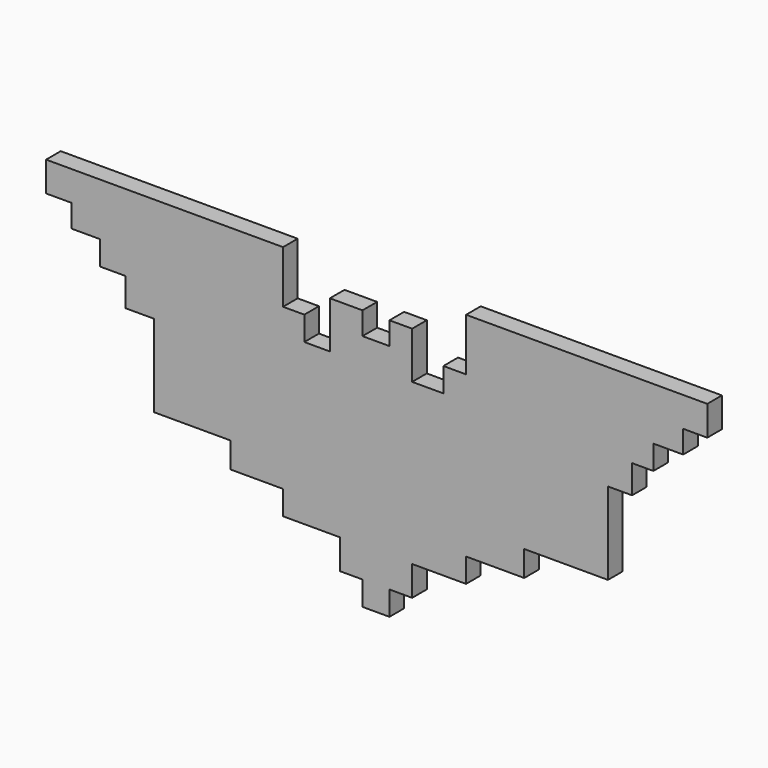
from build123d import *

# Parameters (mm, degrees)
F1_DEPTH = 1.778


with BuildPart() as f1:
    # F0 (on Front) → F1 (new body)
    with BuildSketch(Plane.XZ):
        Polygon((6.730647, 24.762351), (-16.278638, 24.762351), (-16.278638, 21.868968), (-13.798594, 21.868968), (-13.798594, 19.664485), (-11.042993, 19.664485), (-11.042993, 17.322224), (-8.562949, 17.322224), (-8.562949, 14.566621), (-5.807347, 14.566621), (-5.807347, 6.575372), (1.632781, 6.575372), (1.632781, 4.095329), (6.730647, 4.095329), (6.730647, 1.753066), (12.241852, 1.753066), (12.241852, -1.140316), (14.446334, -1.140316), (14.446334, -3.482578), (17.064158, -3.482578), (17.064158, -1.140316), (19.268639, -1.140316), (19.268639, 1.753066), (24.504285, 1.753066), (24.504285, 4.095329), (30.153273, 4.095329), (30.153273, 6.575372), (38.282301, 6.575372), (38.282301, 14.566621), (40.624563, 14.566621), (40.624563, 17.322224), (42.691264, 17.322224), (42.691264, 19.664485), (45.584649, 19.664485), (45.584649, 21.868968), (47.92691, 21.868968), (47.92691, 24.762351), (24.504285, 24.762351), (24.504285, 19.664485), (22.299804, 19.664485), (22.299804, 17.322224), (19.268639, 17.322224), (19.268639, 21.868968), (17.064158, 21.868968), (17.064158, 19.664485), (14.446334, 19.664485), (14.446334, 21.868968), (11.277392, 21.868968), (11.277392, 17.322224), (8.797349, 17.322224), (8.797349, 19.664485), (6.730647, 19.664485), align=None)
    extrude(amount=F1_DEPTH)


solid = f1.part
